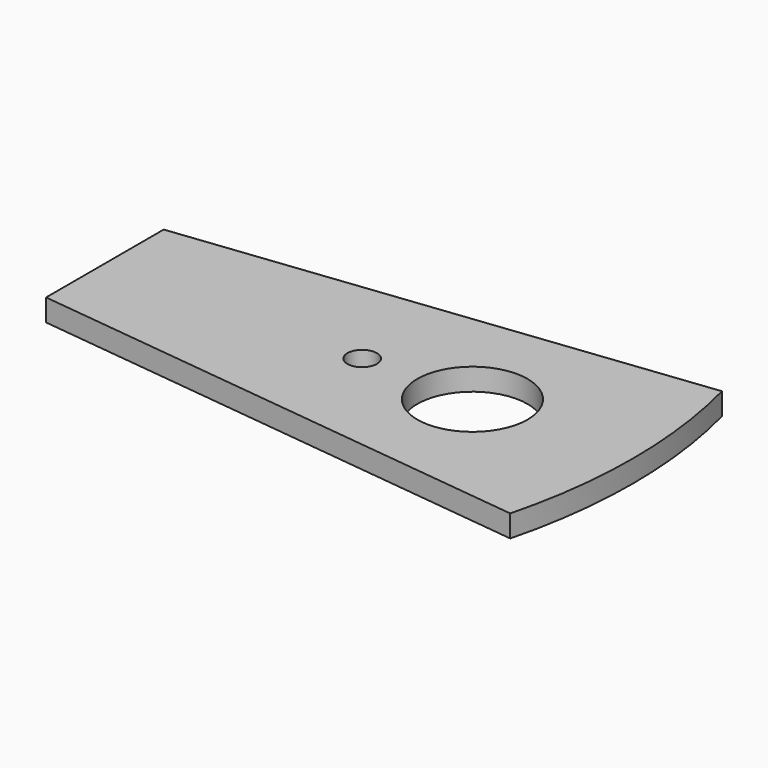
from build123d import *

# Parameters (mm, degrees)
F0_R     = 2
F0_R_2   = 7.5
F1_DEPTH = 3


with BuildPart() as f1:
    # F0 (on Top) → F1 (new body)
    with BuildSketch(Plane.XY):
        with BuildLine():
            ThreePointArc((34.541355, -18), (36.83314, 0), (34.541355, 18))
            Line((34.541355, 18), (-35, 10))
            Line((-35, 10), (-35, -10))
            Line((-35, -10), (34.541355, -18))
        make_face()
        Circle(F0_R, mode=Mode.SUBTRACT)
        with Locations((15, 0)):
            Circle(F0_R_2, mode=Mode.SUBTRACT)
    extrude(amount=F1_DEPTH)


solid = f1.part
